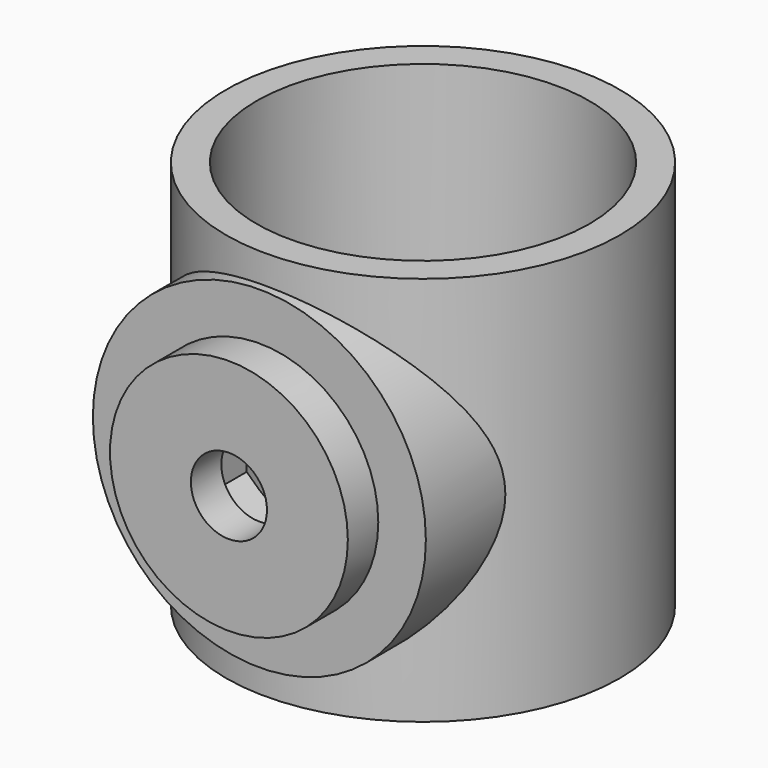
from build123d import *

# Parameters (mm, degrees)
F0_R     = 20.7
F0_R_2   = 17.5
F1_DEPTH = 41
F0_R_3   = 14.5
F2_DEPTH = 3
F4_R     = 17.5
F4_R_2   = 12.5
F4_R_3   = 4
F6_DEPTH = 4
F7_DEPTH = 25
F9_DEPTH = 21.5


with BuildPart() as f1:
    # F0 (on Top) → F1 (new body)
    with BuildSketch(Plane.XY):
        Circle(F0_R)
        Circle(F0_R_2, mode=Mode.SUBTRACT)
    extrude(amount=F1_DEPTH)

    # F0 (on Top) → F2 (join)
    with BuildSketch(Plane.XY):
        Circle(F0_R_2)
        Circle(F0_R_3, mode=Mode.SUBTRACT)
    extrude(amount=F2_DEPTH)

    # F4 (on offset) → F5 (join, up to the next surface of F1)
    with BuildSketch(Plane.XZ.offset(25.5)):
        with Locations((0, 20.5)):
            Circle(F4_R)
        with Locations((0, 20.5)):
            Circle(F4_R_2, mode=Mode.SUBTRACT)
        with Locations((0, 20.5)):
            Circle(F4_R_2)
        with Locations((0, 20.5)):
            Circle(F4_R_3, mode=Mode.SUBTRACT)
    extrude(until=Until.NEXT, dir=(0, 1, 0))

    # F4 (on offset) → F6 (cut)
    with BuildSketch(Plane.XZ.offset(25.5)):
        with Locations((0, 20.5)):
            Circle(F4_R)
        with Locations((0, 20.5)):
            Circle(F4_R_2, mode=Mode.SUBTRACT)
    extrude(amount=-F6_DEPTH, mode=Mode.SUBTRACT)

    # F4 (on offset) → F7 (cut)
    with BuildSketch(Plane.XZ.offset(25.5)):
        with Locations((0, 20.5)):
            Circle(F4_R_3)
    extrude(amount=-F7_DEPTH, mode=Mode.SUBTRACT)

    # F8 (on Front) → F9 (cut, through all)
    with BuildSketch(Plane.XZ):
        Polygon((5.15, 23.43514415), (0, 26.4084980363), (-5.15, 23.43514415), (-5.15, 17.4884363773), (0, 14.515082491), (5.15, 17.4884363773), align=None)
    extrude(amount=F9_DEPTH, mode=Mode.SUBTRACT)


solid = f1.part
